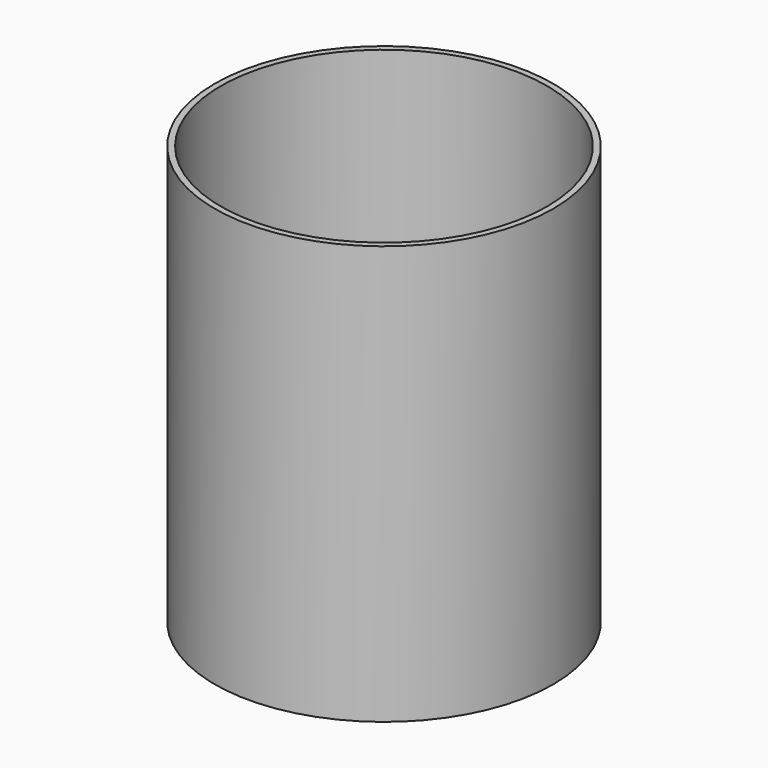
from build123d import *

# Parameters (mm, degrees)
F0_R     = 27.5
F0_R_2   = 26.5
F1_DEPTH = 65
F0_R_3   = 2.15
F0_R_4   = 14.25
F0_R_5   = 1.65
F2_DEPTH = 3
F3_DEPTH = 2


with BuildPart() as f1:
    # F0 (on Top) → F1 (new body)
    with BuildSketch(Plane.XY):
        Circle(F0_R)
        Circle(F0_R_2, mode=Mode.SUBTRACT)
    extrude(amount=F1_DEPTH)

    # F0 (on Top) → F2 (join)
    with BuildSketch(Plane.XY):
        Circle(F0_R)
        Circle(F0_R_2, mode=Mode.SUBTRACT)
        Circle(F0_R_2)
        with Locations((0, -19.25)):
            Circle(F0_R_3, mode=Mode.SUBTRACT)
        with Locations((-19.25, 0)):
            Circle(F0_R_3, mode=Mode.SUBTRACT)
        Circle(F0_R_4, mode=Mode.SUBTRACT)
        with Locations((19.25, 0)):
            Circle(F0_R_3, mode=Mode.SUBTRACT)
        with Locations((0, 19.25)):
            Circle(F0_R_3, mode=Mode.SUBTRACT)
        Circle(F0_R_4)
        with Locations((5.678908, -10)):
            Circle(F0_R_5, mode=Mode.SUBTRACT)
        with Locations((-9, 0)):
            Circle(F0_R_5, mode=Mode.SUBTRACT)
        with Locations((-5.678908, 10)):
            Circle(F0_R_5, mode=Mode.SUBTRACT)
        with Locations((9, 0)):
            Circle(F0_R_5, mode=Mode.SUBTRACT)
    extrude(amount=-F2_DEPTH)

    # F0 (on Top) → F3 (join)
    with BuildSketch(Plane.XY):
        Circle(F0_R_2)
        with Locations((0, -19.25)):
            Circle(F0_R_3, mode=Mode.SUBTRACT)
        with Locations((-19.25, 0)):
            Circle(F0_R_3, mode=Mode.SUBTRACT)
        Circle(F0_R_4, mode=Mode.SUBTRACT)
        with Locations((19.25, 0)):
            Circle(F0_R_3, mode=Mode.SUBTRACT)
        with Locations((0, 19.25)):
            Circle(F0_R_3, mode=Mode.SUBTRACT)
    extrude(amount=F3_DEPTH)


solid = f1.part
